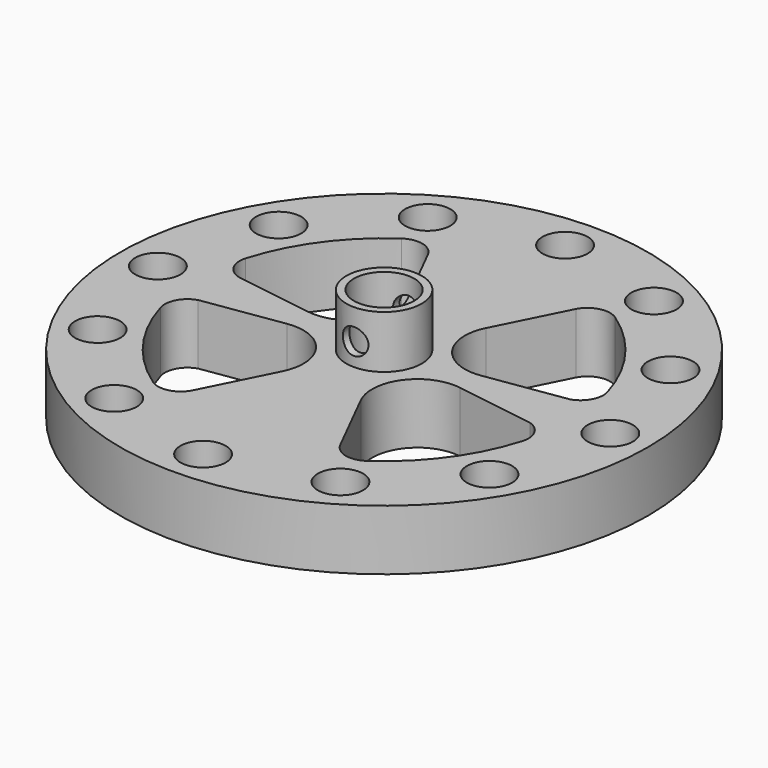
from build123d import *

# Parameters (mm, degrees)
F0_R     = 35
F0_R_2   = 3
F0_R_3   = 4
F1_DEPTH = 8
F2_R     = 5
F2_R_2   = 4
F3_DEPTH = 7
F6_D     = 3.4


with BuildPart() as f1:
    # F0 (on Top) → F1 (new body)
    with BuildSketch(Plane.XY):
        Circle(F0_R)
        with Locations((-15, -25.9807621135)):
            Circle(F0_R_2, mode=Mode.SUBTRACT)
        with Locations((-25.9807621135, -15)):
            Circle(F0_R_2, mode=Mode.SUBTRACT)
        with BuildLine():
            ThreePointArc((-14.1520683747, -20.6087107971), (-20.2390786896, -14.6758200382), (-23.9864227741, -7.0463836473))
            ThreePointArc((-23.9864227741, -7.0463836473), (-23.7500595541, -4.779622232), (-21.9889424597, -3.3330602854))
            Line((-21.9889424597, -3.3330602854), (-11.4594190982, -1.7370064413))
            ThreePointArc((-11.4594190982, -1.7370064413), (-5.7054148294, -4.143495838), (-5.1972611447, -10.3597275079))
            Line((-5.1972611447, -10.3597275079), (-9.8028524215, -19.5400764091))
            ThreePointArc((-9.8028524215, -19.5400764091), (-11.7379895363, -21.049011774), (-14.1520683747, -20.6087107971))
        make_face(mode=Mode.SUBTRACT)
        with Locations((0, -30)):
            Circle(F0_R_2, mode=Mode.SUBTRACT)
        with Locations((15, -25.9807621135)):
            Circle(F0_R_2, mode=Mode.SUBTRACT)
        with BuildLine():
            ThreePointArc((21.9889424597, -3.3330602854), (23.7500595541, -4.779622232), (23.9864227741, -7.0463836473))
            ThreePointArc((23.9864227741, -7.0463836473), (20.2390786896, -14.6758200382), (14.1520683747, -20.6087107971))
            ThreePointArc((14.1520683747, -20.6087107971), (11.7379895363, -21.049011774), (9.8028524215, -19.5400764091))
            Line((9.8028524215, -19.5400764091), (5.1972611447, -10.3597275079))
            ThreePointArc((5.1972611447, -10.3597275079), (5.7054148294, -4.143495838), (11.4594190982, -1.7370064413))
            Line((11.4594190982, -1.7370064413), (21.9889424597, -3.3330602854))
        make_face(mode=Mode.SUBTRACT)
        with Locations((25.9807621135, -15)):
            Circle(F0_R_2, mode=Mode.SUBTRACT)
        with Locations((-30, 0)):
            Circle(F0_R_2, mode=Mode.SUBTRACT)
        with Locations((-25.9807621135, 15)):
            Circle(F0_R_2, mode=Mode.SUBTRACT)
        with BuildLine():
            ThreePointArc((-23.9864227741, 7.0463836473), (-20.2390786896, 14.6758200382), (-14.1520683747, 20.6087107971))
            ThreePointArc((-14.1520683747, 20.6087107971), (-11.7379895363, 21.049011774), (-9.8028524215, 19.5400764091))
            Line((-9.8028524215, 19.5400764091), (-5.1972611447, 10.3597275079))
            ThreePointArc((-5.1972611447, 10.3597275079), (-5.7054148294, 4.143495838), (-11.4594190982, 1.7370064413))
            Line((-11.4594190982, 1.7370064413), (-21.9889424597, 3.3330602854))
            ThreePointArc((-21.9889424597, 3.3330602854), (-23.7500595541, 4.779622232), (-23.9864227741, 7.0463836473))
        make_face(mode=Mode.SUBTRACT)
        with Locations((-15, 25.9807621135)):
            Circle(F0_R_2, mode=Mode.SUBTRACT)
        Circle(F0_R_3, mode=Mode.SUBTRACT)
        with BuildLine():
            ThreePointArc((9.8028524215, 19.5400764091), (11.7379895363, 21.049011774), (14.1520683747, 20.6087107971))
            ThreePointArc((14.1520683747, 20.6087107971), (20.2390786896, 14.6758200382), (23.9864227741, 7.0463836473))
            ThreePointArc((23.9864227741, 7.0463836473), (23.7500595541, 4.779622232), (21.9889424597, 3.3330602854))
            Line((21.9889424597, 3.3330602854), (11.4594190982, 1.7370064413))
            ThreePointArc((11.4594190982, 1.7370064413), (5.7054148294, 4.143495838), (5.1972611447, 10.3597275079))
            Line((5.1972611447, 10.3597275079), (9.8028524215, 19.5400764091))
        make_face(mode=Mode.SUBTRACT)
        with Locations((30, 0)):
            Circle(F0_R_2, mode=Mode.SUBTRACT)
        with Locations((25.9807621135, 15)):
            Circle(F0_R_2, mode=Mode.SUBTRACT)
        with Locations((15, 25.9807621135)):
            Circle(F0_R_2, mode=Mode.SUBTRACT)
        with Locations((0, 30)):
            Circle(F0_R_2, mode=Mode.SUBTRACT)
    extrude(amount=F1_DEPTH)

    # F2 (on face) → F3 (join)
    with BuildSketch(Plane.XY.offset(8)):
        Circle(F2_R)
        Circle(F2_R_2, mode=Mode.SUBTRACT)
    extrude(amount=F3_DEPTH)

    # F6 (through all)
    with Locations(Plane.XZ.offset(5)):
        with Locations((0, 11)):
            Hole(F6_D / 2)


solid = f1.part
